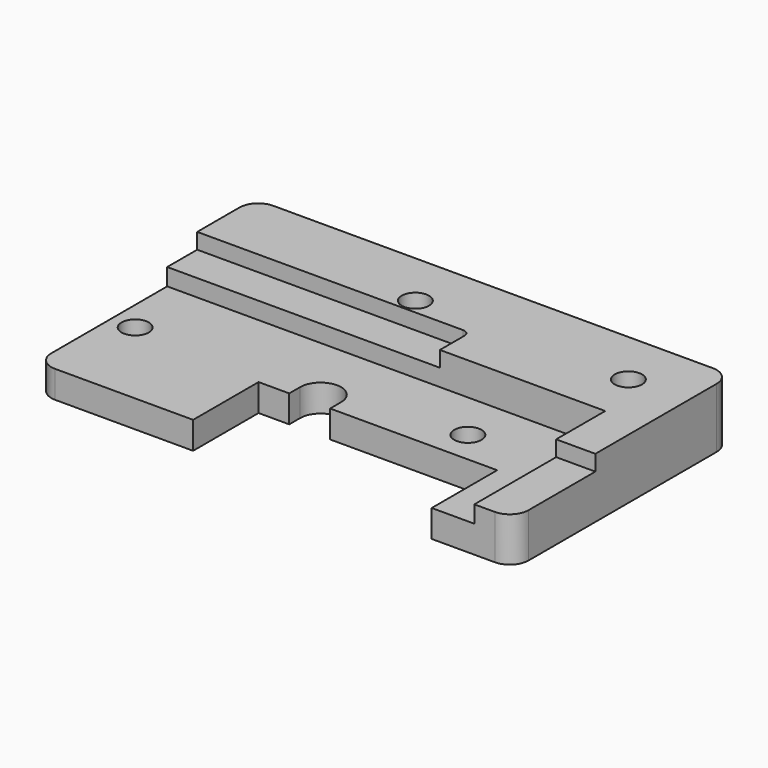
from build123d import *

# Parameters (mm, degrees)
SKETCH_W             = 70
SKETCH_H             = 40
PAD_DEPTH            = 8.8
POCKET_DEPTH         = 4
SKETCH002_R          = 2
POCKET001_DEPTH      = 4.801
SKETCH003_W          = 64.25
SKETCH003_H          = 24
POCKET002_DEPTH      = 4.8
SKETCH004_R          = 2
POCKET003_DEPTH      = 4
SKETCH005_W          = 35
SKETCH005_H          = 12
POCKET004_DEPTH      = 4
POCKET005_DEPTH      = 8.801
SKETCH009_W          = 5.75
SKETCH009_H          = 15
POCKET006_DEPTH      = 2.3
FILLET_R             = 2.75
CHAMFER_SIZE         = 1
BODY_PLACEMENT_ANGLE = 90


with BuildPart() as part:
    # Sketch → Pad (new body)
    with BuildSketch(Plane.XZ):
        Rectangle(SKETCH_W, SKETCH_H)
    extrude(amount=PAD_DEPTH)

    # Sketch001 (on Face5 of Pad) → Pocket (cut)
    with BuildSketch(Plane(origin=(0, 0, 0), x_dir=(1, 0, 0), z_dir=(0, 1, 0))):
        with BuildLine():
            Line((31.8, -20), (31.8, -7))
            ThreePointArc((31.8, -7), (31.507107, -6.292893), (30.8, -6))
            Line((30.8, -6), (-9.2, -6))
            ThreePointArc((-9.2, -6), (-9.907107, -6.292893), (-10.2, -7))
            Line((-10.2, -7), (-10.2, -20))
            Line((-10.2, -20), (31.8, -20))
        make_face()
    extrude(amount=-POCKET_DEPTH, mode=Mode.SUBTRACT)

    # Sketch002 (on Face7 of Pocket) → Pocket001 (cut, through all)
    with BuildSketch(Plane(origin=(0, -4, 0), x_dir=(1, 0, 0), z_dir=(0, 1, 0))):
        with Locations((-4.825, -11.78)):
            Circle(SKETCH002_R)
        with Locations((26.425, -11.78)):
            Circle(SKETCH002_R)
    extrude(amount=-POCKET001_DEPTH, mode=Mode.SUBTRACT)

    # Sketch003 (on Face5 of Pocket001) → Pocket002 (cut)
    with BuildSketch(Plane.XZ.offset(8.8)):
        with Locations((-2.875, -8)):
            Rectangle(SKETCH003_W, SKETCH003_H)
    extrude(amount=-POCKET002_DEPTH, mode=Mode.SUBTRACT)

    # Sketch004 (on Face4 of Pocket002) → Pocket003 (cut)
    with BuildSketch(Plane.XZ.offset(4)):
        with Locations((14.9, -3.25)):
            Circle(SKETCH004_R)
        with Locations((-31.5, -6.25)):
            Circle(SKETCH004_R)
    extrude(amount=-POCKET003_DEPTH, mode=Mode.SUBTRACT)

    # Sketch005 (on Face4 of Pocket003) → Pocket004 (cut)
    with BuildSketch(Plane.XZ.offset(4)):
        with Locations((5.5, -14)):
            Rectangle(SKETCH005_W, SKETCH005_H)
    extrude(amount=-POCKET004_DEPTH, mode=Mode.SUBTRACT)

    # Sketch008 (on Face2 of Pocket004) → Pocket005 (cut, through all)
    with BuildSketch(Plane(origin=(0, 0, 0), x_dir=(1, 0, 0), z_dir=(0, 1, 0))):
        with BuildLine():
            ThreePointArc((-7.5, 6), (-4.5, 3), (-1.5, 6))
            Line((-1.5, 8), (-1.5, 6))
            Line((-7.5, 8), (-1.5, 8))
            Line((-7.5, 8), (-7.5, 6))
        make_face()
    extrude(amount=-POCKET005_DEPTH, mode=Mode.SUBTRACT)

    # Sketch009 (on Face6 of Pocket005) → Pocket006 (cut)
    with BuildSketch(Plane.XZ.offset(8.8)):
        with BuildLine():
            Line((-35, 4), (5, 4))
            Line((5, 4), (5, 8.5))
            ThreePointArc((5, 8.5), (4.707107, 9.207107), (4, 9.5))
            Line((4, 9.5), (-35, 9.5))
            Line((-35, 9.5), (-35, 4))
        make_face()
        with Locations((32.125, -12.5)):
            Rectangle(SKETCH009_W, SKETCH009_H)
    extrude(amount=-POCKET006_DEPTH, mode=Mode.SUBTRACT)

    # Fillet
    fillet_edges = [part.edges().sort_by_distance(p)[0] for p in [
        (35, -4.4, 20),
        (-35, -4.4, 20),
        (35, -3.25, -20),
        (-35, -2, -20),
    ]]
    fillet(fillet_edges, radius=FILLET_R)

    # Chamfer
    chamfer_edges = [part.edges().sort_by_distance(p)[0] for p in [
        (-10.2, -2, 20),
    ]]
    chamfer(chamfer_edges, length=CHAMFER_SIZE)


with BuildPart() as part_1:
    # Body placement: moved
    add(part.part.rotate(Axis((0, 0, 0), (-1, 0, 0)), BODY_PLACEMENT_ANGLE))


solid = part_1.part
